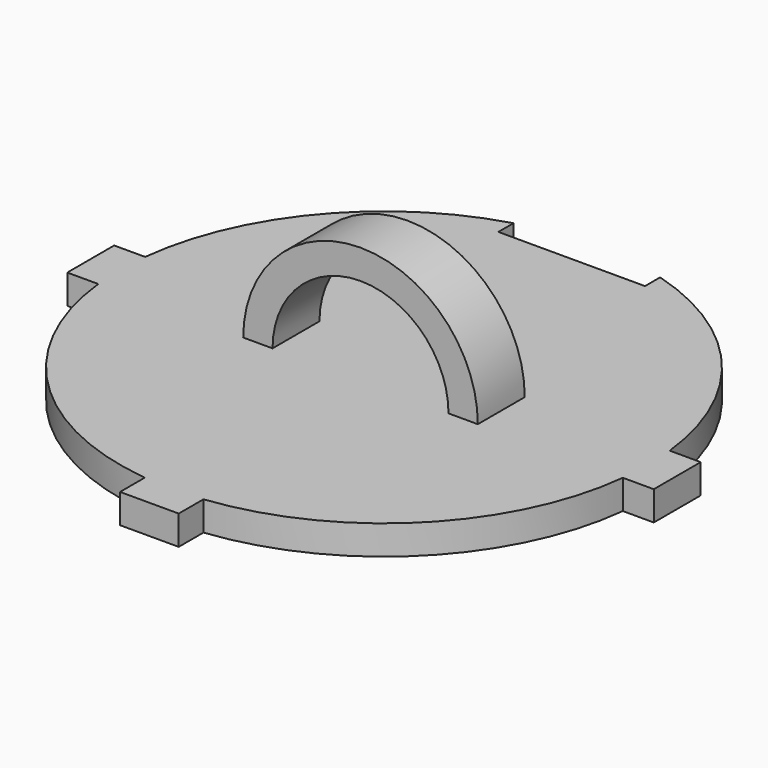
from build123d import *

# Parameters (mm, degrees)
SKETCH001_R      = 9
PAD_DEPTH        = 1
PAD001_DEPTH     = 1
SKETCH003_W      = 5
SKETCH003_H      = 5
POCKET_DEPTH     = 5
SKETCH004_W      = 1
SKETCH004_H      = 2
REVOLUTION_ANGLE = -180


with BuildPart() as part:
    # Sketch001 → Pad (new body)
    with BuildSketch(Plane.XY):
        Circle(SKETCH001_R)
    extrude(amount=PAD_DEPTH)

    # Sketch002 → Pad001 (join)
    with BuildSketch(Plane.XY):
        Polygon((-10, 1), (10, 1), (10, -1), (1, -1), (1, -10), (-1, -10), (-1, -1), (-10, -1), align=None)
    extrude(amount=PAD001_DEPTH)

    # Sketch003 (on Face25 of Pad001) → Pocket (cut)
    with BuildSketch(Plane.XY.offset(1)):
        with Locations((0, 10.5)):
            Rectangle(SKETCH003_W, SKETCH003_H)
    extrude(amount=-POCKET_DEPTH, mode=Mode.SUBTRACT)

    # Sketch004 (on Face7 of Pocket) → Revolution (revolve)
    with BuildSketch(Plane(origin=(0, 0, 1), x_dir=(1, 0, 0), z_dir=(0, 0, -1))):
        with Locations((-3.5, 0)):
            Rectangle(SKETCH004_W, SKETCH004_H)
    revolve(axis=Axis((0, 0, 1), (0, -1, 0)), revolution_arc=REVOLUTION_ANGLE)


solid = part.part
